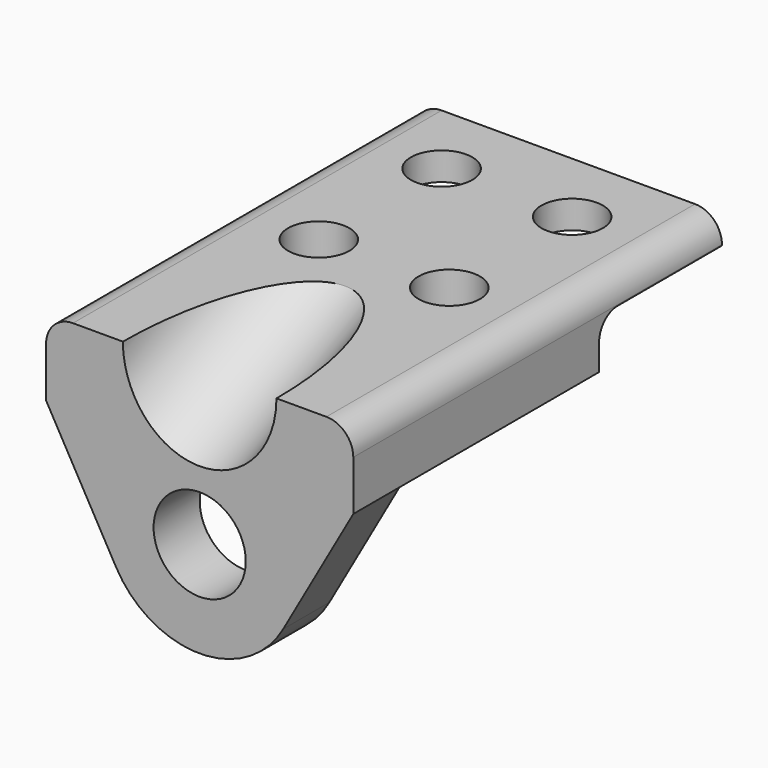
from build123d import *

# Parameters (mm, degrees)
CYLINDER_R               = 20
CYLINDER_DEPTH           = 100
CYLINDER_PLACEMENT_ANGLE = 295
PAD_DEPTH                = 120
POCKET_DEPTH             = 80.001
SKETCH003_R              = 12
PAD001_DEPTH             = 15
SKETCH004_R              = 8
POCKET001_DEPTH          = 65.001


with BuildPart() as cilindro:
    # Cylinder → Cylinder (new body)
    with BuildSketch(Plane.XY):
        Circle(CYLINDER_R)
    extrude(amount=CYLINDER_DEPTH)


with BuildPart() as cilindro_1:
    # Cylinder placement: moved
    add(cilindro.part.moved(Location((0, -45.315389, -1.130913))).rotate(Axis((0, -45.315389, -1.130913), (1, 0, 0)), CYLINDER_PLACEMENT_ANGLE))


with BuildPart() as cut:
    # Sketch → Pad (new body)
    with BuildSketch(Plane.XZ):
        with BuildLine():
            Line((-33, 20), (33, 20))
            ThreePointArc((40, 13), (37.949747, 17.949747), (33, 20))
            Line((40, 13), (40, 0))
            Line((40, 0), (-40, 0))
            Line((-40, 0), (-40, 13))
            ThreePointArc((-33, 20), (-37.949747, 17.949747), (-40, 13))
        make_face()
    extrude(amount=-PAD_DEPTH)

    # Sketch002 → Pocket (cut, through all)
    with BuildSketch(Plane(origin=(40, 0, 0), x_dir=(0, 0, 1), z_dir=(1, 0, 0))):
        with BuildLine():
            Line((0, -80), (6.738911, -80))
            ThreePointArc((12.738911, -86), (10.981552, -81.757359), (6.738911, -80))
            Line((12.738911, -86), (12.738911, -134.292511))
            Line((12.738911, -134.292511), (0, -134.292511))
            Line((0, -134.292511), (0, -80))
        make_face()
    extrude(amount=-POCKET_DEPTH, mode=Mode.SUBTRACT)

    # Sketch003 → Pad001 (new body)
    with BuildSketch(Plane.XZ):
        with BuildLine():
            Line((-40, 0), (40, 0))
            Line((40, 0), (21.770267, -32.290463))
            ThreePointArc((-21.770267, -32.290463), (0, -45), (21.770267, -32.290463))
            Line((-40, 0), (-21.770267, -32.290463))
        make_face()
        with Locations((0, -20)):
            Circle(SKETCH003_R, mode=Mode.SUBTRACT)
    extrude(amount=-PAD001_DEPTH)

    # Sketch004 → Pocket001 (cut, through all)
    with BuildSketch(Plane(origin=(0, 0, 20), x_dir=(-1, 0, 0), z_dir=(0, 0, 1))):
        with Locations((17, -100)):
            Circle(SKETCH004_R)
        with Locations((-17, -100)):
            Circle(SKETCH004_R)
        with Locations((-17, -60)):
            Circle(SKETCH004_R)
        with Locations((17, -60)):
            Circle(SKETCH004_R)
    extrude(amount=-POCKET001_DEPTH, mode=Mode.SUBTRACT)

    # Cut: cut Cilindro
    add(cilindro_1.part, mode=Mode.SUBTRACT)


solid = cut.part
